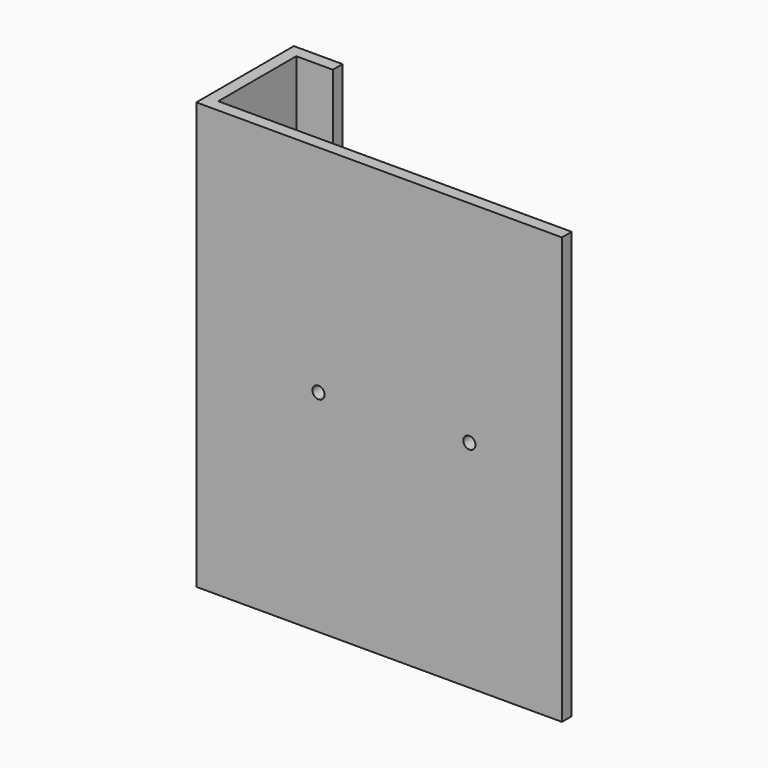
from build123d import *

# Parameters (mm, degrees)
F1_DEPTH = 175
F3_DEPTH = 25
F4_DEPTH = 25


with BuildPart() as f1:
    # F0 (on Top) → F1 (new body)
    with BuildSketch(Plane.XY):
        Polygon((-112.044677, 17.414129), (-112.044677, -7.585871), (37.955323, -7.585871), (37.955323, -2.585871), (-107.044677, -2.585871), (-107.044677, 17.414129), align=None)
        Polygon((-112.044677, 42.414129), (-112.044677, 17.414129), (-107.044677, 17.414129), (-107.044677, 37.414129), (-92.044677, 37.414129), (-92.044677, 42.414129), align=None)
    extrude(amount=F1_DEPTH)

    # F2 (on face) → F3 (cut)
    with BuildSketch(Plane.XZ.offset(7.585871)):
        with BuildLine():
            ThreePointArc((-2.327439, 89.412704), (-0.464437, 86.043519), (2.5, 88.5))
            Line((2.5, 88.5), (0, 88.5))
            Line((0, 88.5), (0, 89.526452))
            Line((0, 89.526452), (-2.327439, 89.412704))
        make_face()
    extrude(amount=-F3_DEPTH, mode=Mode.SUBTRACT)

    # F2 (on face) → F4 (cut)
    with BuildSketch(Plane.XZ.offset(7.585871)):
        with BuildLine():
            Line((0, 88.5), (2.5, 88.5))
            ThreePointArc((2.5, 88.5), (2.430881, 89.083794), (2.227347, 89.635308))
            Line((2.227347, 89.635308), (0, 89.526452))
            Line((0, 89.526452), (0, 88.5))
        make_face()
        with BuildLine():
            ThreePointArc((-59.425465, 86.5), (-59.42621, 86.561036), (-59.428445, 86.622036))
            Line((-59.428445, 86.622036), (-61.925465, 86.5))
            Line((-61.925465, 86.5), (-61.925465, 84))
            ThreePointArc((-61.925465, 84), (-60.157698, 84.732233), (-59.425465, 86.5))
        make_face()
        with BuildLine():
            Line((-61.925465, 86.5), (-59.428445, 86.622036))
            ThreePointArc((-59.428445, 86.622036), (-63.735864, 88.224081), (-61.925465, 84))
            Line((-61.925465, 84), (-61.925465, 86.5))
        make_face()
        with BuildLine():
            ThreePointArc((-2.327439, 89.412704), (-0.464437, 86.043519), (2.5, 88.5))
            Line((2.5, 88.5), (0, 88.5))
            Line((0, 88.5), (0, 89.526452))
            Line((0, 89.526452), (-2.327439, 89.412704))
        make_face()
        with BuildLine():
            Line((0, 89.526452), (2.227347, 89.635308))
            ThreePointArc((2.227347, 89.635308), (1.306088, 90.631698), (0, 91))
            Line((0, 91), (0, 89.526452))
        make_face()
        with BuildLine():
            ThreePointArc((0, 91), (-1.408588, 90.565401), (-2.327439, 89.412704))
            Line((-2.327439, 89.412704), (0, 89.526452))
            Line((0, 89.526452), (0, 91))
        make_face()
    extrude(amount=-F4_DEPTH, mode=Mode.SUBTRACT)


solid = f1.part
